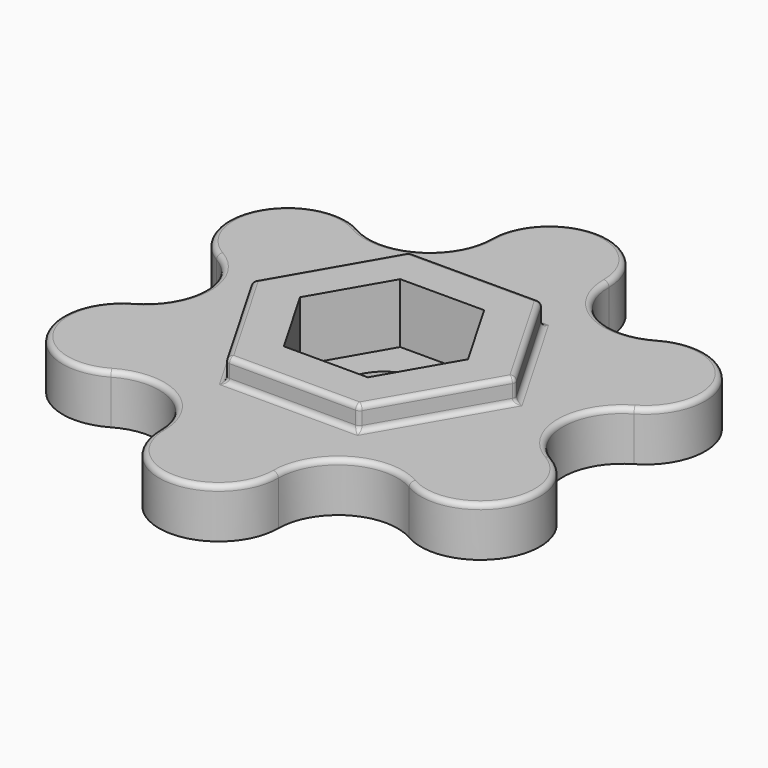
from build123d import *

# Parameters (mm, degrees)
F1_DEPTH = 1.9
F2_DEPTH = 2.8
F0_R     = 1.6
F3_DEPTH = 0.5
F4_R     = 0.2
F5_R     = 0.2


with BuildPart() as f1:
    # F0 (on Top) → F1 (new body)
    with BuildSketch(Plane.XY):
        with BuildLine():
            ThreePointArc((5.740237, 5.965429), (3.444142, 5.965429), (2.296095, 7.953905))
            ThreePointArc((2.296095, 7.953905), (0, 10.25), (-2.296095, 7.953905))
            ThreePointArc((-2.296095, 7.953905), (-3.444142, 5.965429), (-5.740237, 5.965429))
            ThreePointArc((-5.740237, 5.965429), (-8.87676, 5.125), (-8.036331, 1.988476))
            ThreePointArc((-8.036331, 1.988476), (-6.888284, 0), (-8.036331, -1.988476))
            ThreePointArc((-8.036331, -1.988476), (-8.87676, -5.125), (-5.740237, -5.965429))
            ThreePointArc((-5.740237, -5.965429), (-3.444142, -5.965429), (-2.296095, -7.953905))
            ThreePointArc((-2.296095, -7.953905), (0, -10.25), (2.296095, -7.953905))
            ThreePointArc((2.296095, -7.953905), (3.444142, -5.965429), (5.740237, -5.965429))
            ThreePointArc((5.740237, -5.965429), (8.87676, -5.125), (8.036331, -1.988476))
            ThreePointArc((8.036331, -1.988476), (6.888284, 0), (8.036331, 1.988476))
            ThreePointArc((8.036331, 1.988476), (8.87676, 5.125), (5.740237, 5.965429))
        make_face()
        Polygon((-2.540341, 4.4), (2.540341, 4.4), (5.080682, 0), (2.540341, -4.4), (-2.540341, -4.4), (-5.080682, 0), align=None, mode=Mode.SUBTRACT)
    extrude(amount=F1_DEPTH)

    # F0 (on Top) → F2 (join)
    with BuildSketch(Plane.XY):
        Polygon((5.080682, 0), (2.540341, 4.4), (-2.540341, 4.4), (-5.080682, 0), (-2.540341, -4.4), (2.540341, -4.4), align=None)
        Polygon((-1.616581, 2.8), (1.616581, 2.8), (3.233162, 0), (1.616581, -2.8), (-1.616581, -2.8), (-3.233162, 0), align=None, mode=Mode.SUBTRACT)
    extrude(amount=F2_DEPTH)

    # F0 (on Top) → F3 (join)
    with BuildSketch(Plane.XY):
        Polygon((3.233162, 0), (1.616581, 2.8), (-1.616581, 2.8), (-3.233162, 0), (-1.616581, -2.8), (1.616581, -2.8), align=None)
        Circle(F0_R, mode=Mode.SUBTRACT)
    extrude(amount=F3_DEPTH)

    # F4
    f4_edges = [f1.edges().sort_by_distance(p)[0] for p in [
        (6.888284, 0, 1.9),
        (8.87676, 5.125, 1.9),
        (3.444142, 5.965429, 1.9),
        (0, 10.25, 1.9),
        (-3.444142, 5.965429, 1.9),
        (-8.87676, 5.125, 1.9),
        (-6.888284, 0, 1.9),
        (-8.87676, -5.125, 1.9),
        (-3.444142, -5.965429, 1.9),
        (0, -10.25, 1.9),
        (3.444142, -5.965429, 1.9),
        (8.87676, -5.125, 1.9),
        (-3.810512, 2.2, 1.9),
        (0, 4.4, 1.9),
        (3.810512, 2.2, 1.9),
        (3.810512, -2.2, 1.9),
        (0, -4.4, 1.9),
        (-3.810512, -2.2, 1.9),
    ]]
    fillet(f4_edges, radius=F4_R)

    # F5
    f5_edges = [f1.edges().sort_by_distance(p)[0] for p in [
        (3.810512, -2.2, 2.8),
        (2.540341, -4.4, 2.45),
        (0, -4.4, 2.8),
        (-2.540341, -4.4, 2.45),
        (-3.810512, -2.2, 2.8),
        (-3.810512, 2.2, 2.8),
        (-5.080682, 0, 2.45),
        (-2.540341, 4.4, 2.45),
        (0, 4.4, 2.8),
        (2.540341, 4.4, 2.45),
        (3.810512, 2.2, 2.8),
        (5.080682, 0, 2.45),
    ]]
    fillet(f5_edges, radius=F5_R)


solid = f1.part
